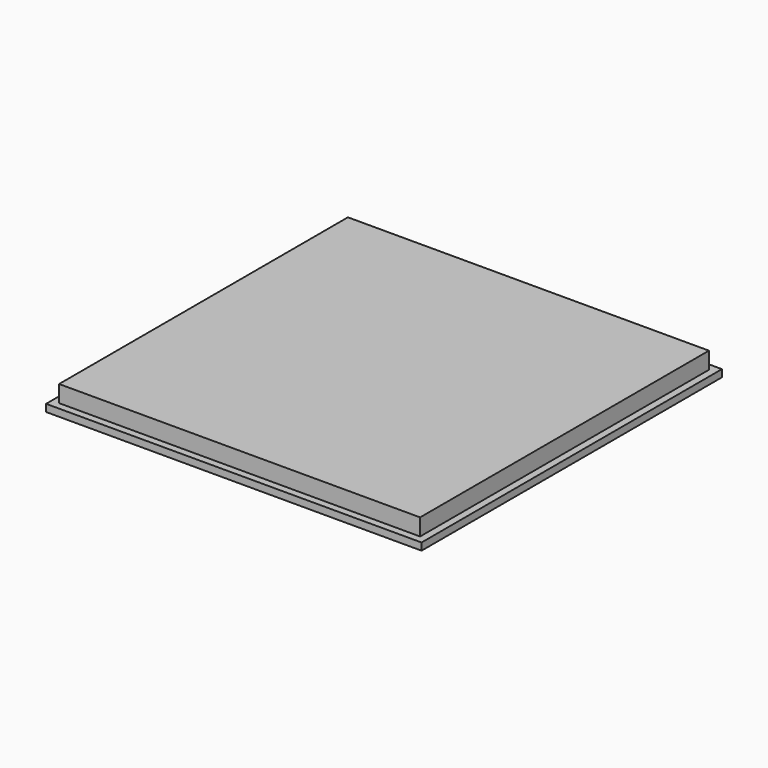
from build123d import *

# Parameters (mm, degrees)
F0_W     = 150
F0_H     = 150
F2_DEPTH = 10
F1_W     = 156
F1_H     = 156
F1_W_2   = 150
F1_H_2   = 150
F3_DEPTH = 3


with BuildPart() as f2:
    # F0 (on Top) → F2 (new body)
    with BuildSketch(Plane.XY):
        with Locations((-0.366613, 1.669575)):
            Rectangle(F0_W, F0_H)
    extrude(amount=F2_DEPTH)

    # F1 (on face) → F3 (join)
    with BuildSketch(Plane.XY):
        with Locations((-0.366613, 1.669575)):
            Rectangle(F1_W, F1_H)
        with Locations((-0.366613, 1.669575)):
            Rectangle(F1_W_2, F1_H_2, mode=Mode.SUBTRACT)
    extrude(amount=F3_DEPTH)


solid = f2.part
